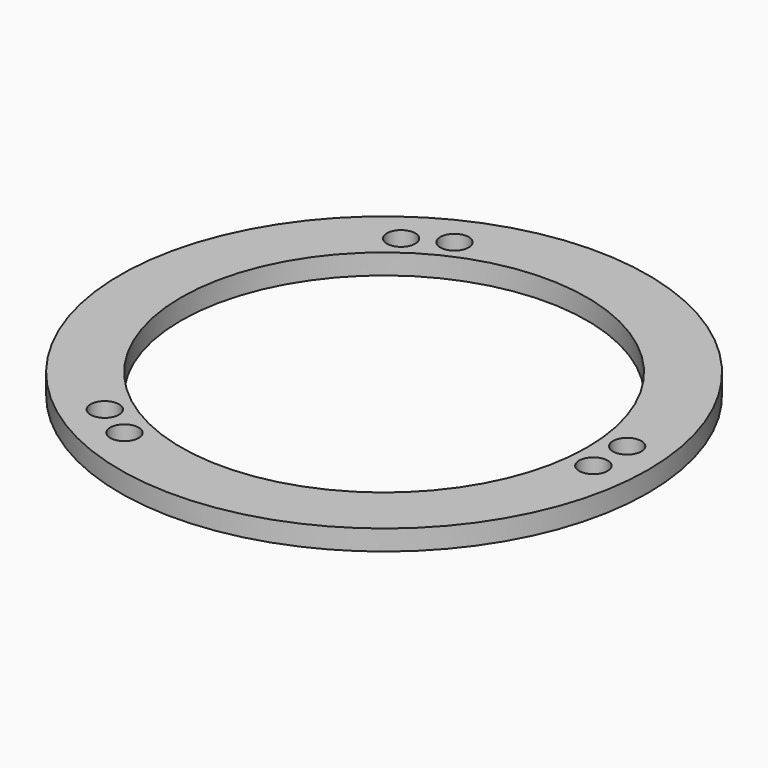
from build123d import *

# Parameters (mm, degrees)
F0_R     = 650
F0_R_2   = 35
F0_R_3   = 500
F1_DEPTH = 50


with BuildPart() as f1:
    # F0 (on Top) → F1 (new body)
    with BuildSketch(Plane.XY):
        Circle(F0_R)
        with Locations((-233, -508)):
            Circle(F0_R_2, mode=Mode.SUBTRACT)
        with Locations((-323, -456)):
            Circle(F0_R_2, mode=Mode.SUBTRACT)
        with Locations((557, -52)):
            Circle(F0_R_2, mode=Mode.SUBTRACT)
        with Locations((-323, 456)):
            Circle(F0_R_2, mode=Mode.SUBTRACT)
        with Locations((-233, 508)):
            Circle(F0_R_2, mode=Mode.SUBTRACT)
        Circle(F0_R_3, mode=Mode.SUBTRACT)
        with Locations((557, 52)):
            Circle(F0_R_2, mode=Mode.SUBTRACT)
    extrude(amount=F1_DEPTH)


solid = f1.part
